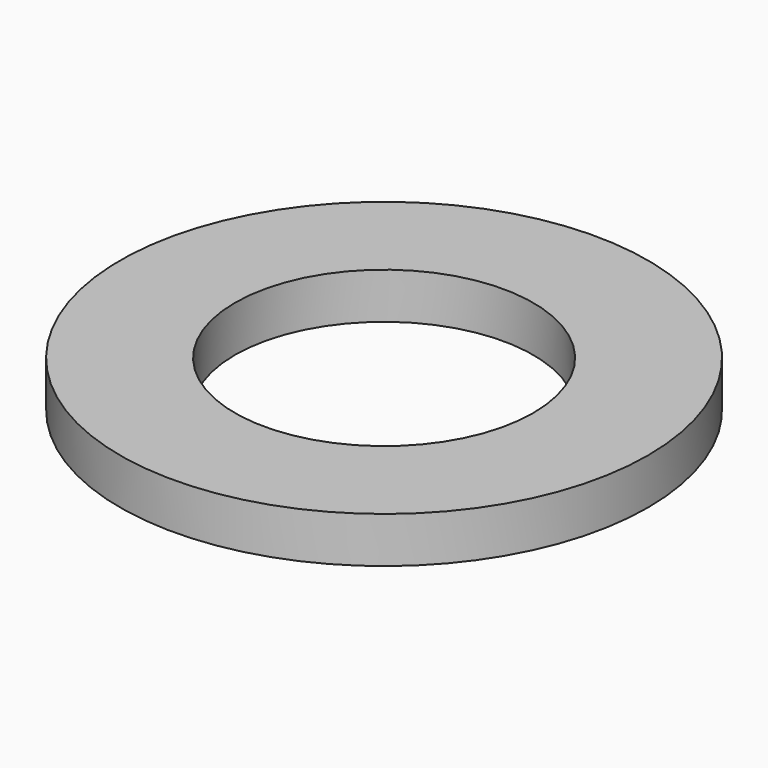
from build123d import *

# Parameters (mm, degrees)
SKETCH_R   = 11.5
SKETCH_R_2 = 6.5
PAD_DEPTH  = 2


with BuildPart() as part:
    # Sketch → Pad (new body)
    with BuildSketch(Plane.XY):
        Circle(SKETCH_R)
        Circle(SKETCH_R_2, mode=Mode.SUBTRACT)
    extrude(amount=PAD_DEPTH)


solid = part.part
